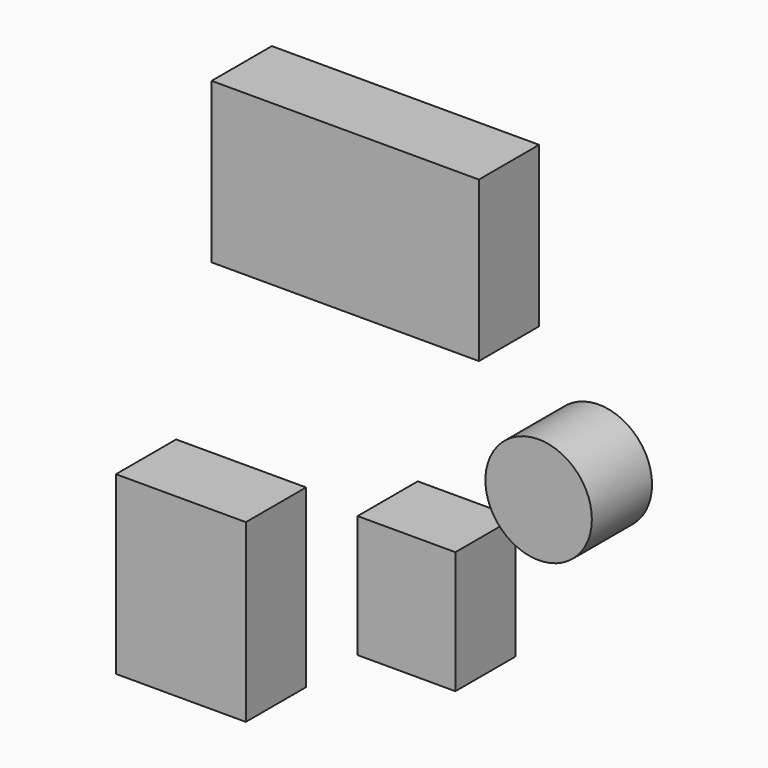
from build123d import *

# Parameters (mm, degrees)
F0_W     = 88.801429
F0_H     = 53.103253
F0_W_2   = 32.501325
F0_H_2   = 40.671051
F0_W_3   = 43.157503
F0_H_3   = 58.431357
F1_DEPTH = 25
F2_R     = 17.686239
F3_DEPTH = 25


with BuildPart() as f1:
    # F0 (on Front) → F1 (new body)
    with BuildSketch(Plane.XZ):
        with Locations((25.752432, 60.65137)):
            Rectangle(F0_W, F0_H)
        with Locations((46.087958, -44.667124)):
            Rectangle(F0_W_2, F0_H_2)
        with Locations((-28.860443, -67.400291)):
            Rectangle(F0_W_3, F0_H_3)
    extrude(amount=F1_DEPTH)


with BuildPart() as f3:
    # F2 (on Front) → F3 (new body)
    with BuildSketch(Plane.XZ):
        with Locations((89.992195, 0)):
            Circle(F2_R)
    extrude(amount=F3_DEPTH)


solid = Compound([f1.part, f3.part])
